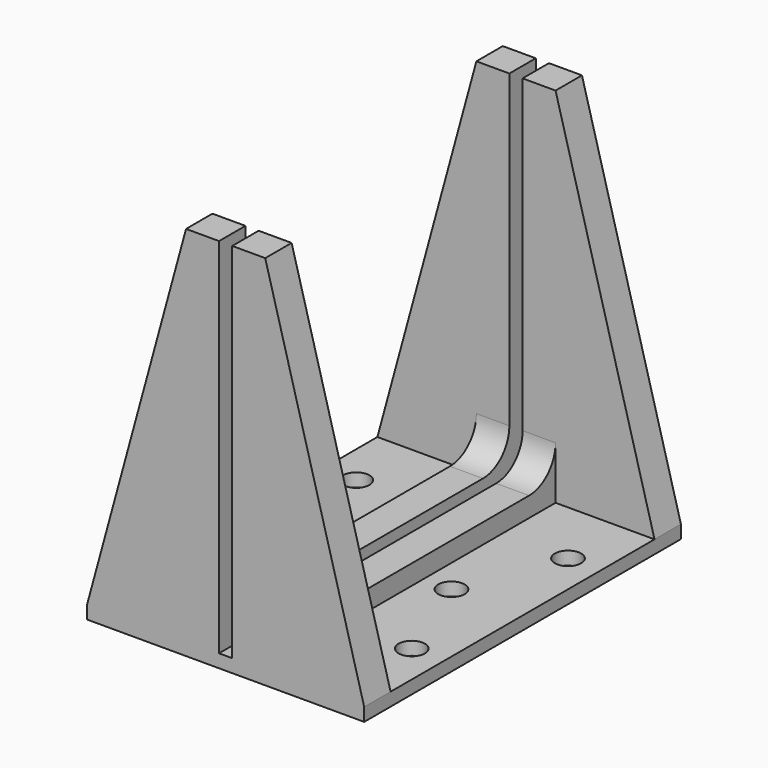
from build123d import *

# Parameters (mm, degrees)
F1_DEPTH = 60
F3_DEPTH = 27.001
F4_R     = 2
F5_DEPTH = 25
F7_DEPTH = 5


with BuildPart() as f1:
    # F0 (on Front) → F1 (new body)
    with BuildSketch(Plane.XZ):
        Polygon((0, 55), (0, 0), (-15, 0), (-15, -2), (27, -2), (27, 0), (12, 0), (12, 55), (7, 55), (7, 0), (5, 0), (5, 55), align=None)
    extrude(amount=F1_DEPTH)

    # F2 (on face) → F3 (cut, through all)
    with BuildSketch(Plane(origin=(0, 0, 0), x_dir=(0, -1, 0), z_dir=(-1, 0, 0))):
        with BuildLine():
            Line((55, 55), (5, 55))
            Line((5, 55), (5, 8))
            ThreePointArc((5, 8), (6.4644660941, 4.4644660941), (10, 3))
            Line((10, 3), (50, 3))
            ThreePointArc((50, 3), (53.5355339059, 4.4644660941), (55, 8))
            Line((55, 8), (55, 55))
        make_face()
    extrude(amount=-F3_DEPTH, mode=Mode.SUBTRACT)

    # F4 (on face) → F5 (cut)
    with BuildSketch(Plane.XY):
        with Locations((-10.0474134088, -15.2)):
            Circle(F4_R)
        with Locations((-10.0474134088, -44.8)):
            Circle(F4_R)
        with Locations((-4.2247553356, -30)):
            Circle(F4_R)
        with Locations((16.2247553356, -30)):
            Circle(F4_R)
        with Locations((22.0474134088, -44.8)):
            Circle(F4_R)
        with Locations((22.0474134088, -15.2)):
            Circle(F4_R)
    extrude(amount=-F5_DEPTH, mode=Mode.SUBTRACT)



with BuildPart() as f7:
    # F6 (on face) → F7 (new body, through all)
    with BuildSketch(Plane.XZ.offset(60)):
        Polygon((0, 55), (-15, 0), (0, 0), align=None)
    extrude(amount=-F7_DEPTH)


with BuildPart() as f7b:
    # F6 (on face) → F7, piece 2 (new body, through all)
    with BuildSketch(Plane.XZ.offset(60)):
        Polygon((27, 0), (12, 55), (12, 0), align=None)
    extrude(amount=-F7_DEPTH)


with BuildPart() as f1_1:
    add(f1.part)

    add(f7.part)  # F10 merges F7

    add(f7b.part)  # F10 merges F7b
    # F10: F7b, F7 across plane
    add(f7b.part.mirror(Plane.XZ.offset(30)))
    add(f7.part.mirror(Plane.XZ.offset(30)))


solid = f1_1.part
